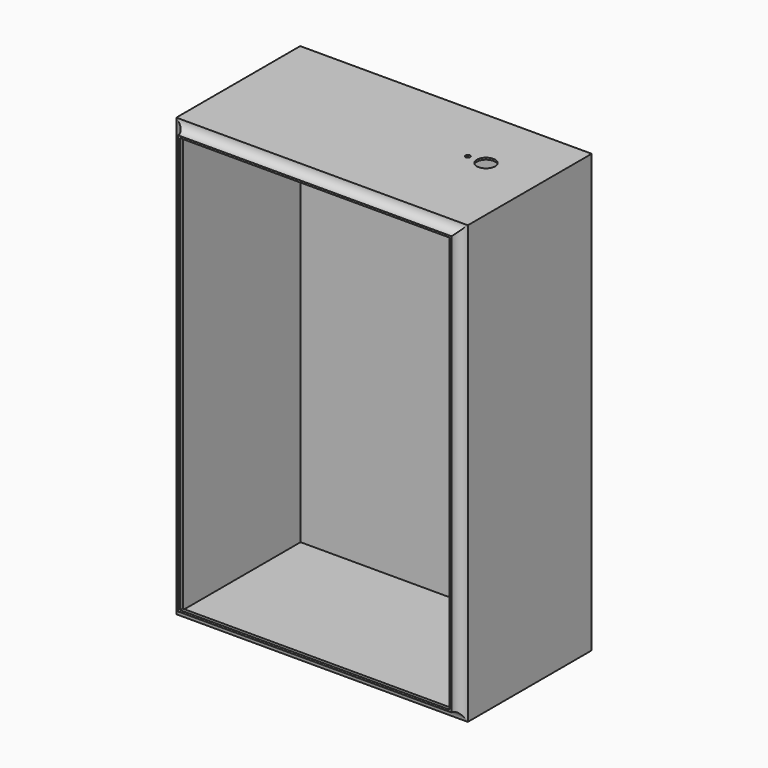
from build123d import *

# Parameters (mm, degrees)
F1_DEPTH = 609.6
F2_R     = 12.7
F3_DEPTH = 406.401
F4_T     = -2.54
F5_R     = 12.7
F5_R_2   = 3.302
F6_DEPTH = 25.4


with BuildPart() as f1:
    # F0 (on Top) → F1 (new body)
    with BuildSketch(Plane.XY):
        with BuildLine():
            Line((203.2, -101.6), (203.2, 114.3))
            Line((203.2, 114.3), (-203.2, 114.3))
            Line((-203.2, 114.3), (-203.2, -101.6))
            ThreePointArc((-203.2, -101.6), (-194.2197438789, -105.3197438789), (-190.5, -114.3))
            Line((-190.5, -114.3), (190.5, -114.3))
            ThreePointArc((190.5, -114.3), (194.2197438789, -105.3197438789), (203.2, -101.6))
        make_face()
    extrude(amount=F1_DEPTH)

    # F2 (on face) → F3 (cut, through all)
    with BuildSketch(Plane.YZ.offset(203.2)):
        with Locations((-114.2978898402, 609.8315029268)):
            Circle(F2_R)
        with Locations((-114.3, 0)):
            Circle(F2_R)
    extrude(amount=-F3_DEPTH, mode=Mode.SUBTRACT)

    # F4
    f4_openings = [f1.faces().sort_by_distance(p)[0] for p in [
        (0, -114.3, 304.915752),
    ]]
    offset(amount=F4_T, openings=f4_openings)

    # F5 (on face) → F6 (cut)
    with BuildSketch(Plane.XY.offset(609.6)):
        with Locations((127, 25.4)):
            Circle(F5_R)
        with Locations((101.6, 25.4)):
            Circle(F5_R_2)
    extrude(amount=-F6_DEPTH, mode=Mode.SUBTRACT)


solid = f1.part
